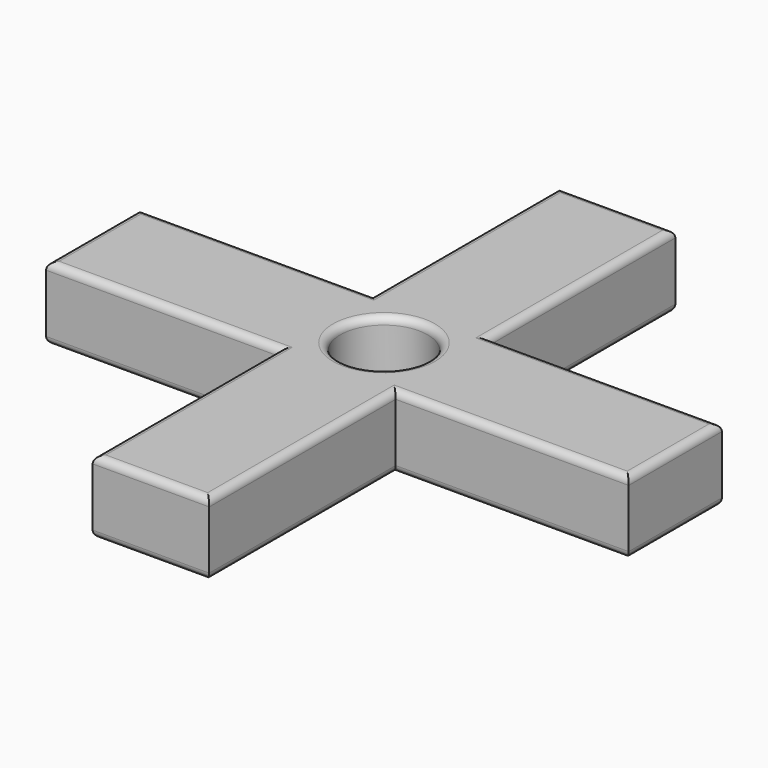
from build123d import *

# Parameters (mm, degrees)
F0_R     = 6.35
F0_R_2   = 3.81
F1_DEPTH = 6.35
F2_W     = 1.27
F2_H     = 1.27
F3_DEPTH = 6.35
F4_R     = 0.635


with BuildPart() as f1:
    # F0 (on Top) → F1 (new body)
    with BuildSketch(Plane.XY):
        Circle(F0_R)
        Circle(F0_R_2, mode=Mode.SUBTRACT)
    extrude(amount=F1_DEPTH)

    # F2 (on face) → F3 (join)
    with BuildSketch(Plane.XY.offset(6.35)):
        Polygon((25.4, -5.08), (25.4, 5.08), (5.08, 5.08), (5.08, 3.81), (3.81, 3.81), (3.81, -3.81), (5.08, -3.81), (5.08, -5.08), align=None)
        Polygon((3.81, 5.08), (5.08, 5.08), (5.08, 25.4), (-5.08, 25.4), (-5.08, 5.08), (-3.81, 5.08), (-3.81, 3.81), (3.81, 3.81), align=None)
        with Locations((4.445, 4.445)):
            Rectangle(F2_W, F2_H)
        Polygon((5.08, -25.4), (5.08, -5.08), (3.81, -5.08), (3.81, -3.81), (-3.81, -3.81), (-3.81, -5.08), (-5.08, -5.08), (-5.08, -25.4), align=None)
        with Locations((4.445, -4.445)):
            Rectangle(F2_W, F2_H)
        with Locations((-4.445, 4.445)):
            Rectangle(F2_W, F2_H)
        Polygon((-3.81, -3.81), (-3.81, 3.81), (-5.08, 3.81), (-5.08, 5.08), (-25.4, 5.08), (-25.4, -5.08), (-5.08, -5.08), (-5.08, -3.81), align=None)
        with Locations((-4.445, -4.445)):
            Rectangle(F2_W, F2_H)
    extrude(amount=-F3_DEPTH)

    # F4
    f4_edges = [f1.edges().sort_by_distance(p)[0] for p in [
        (-3.81, 0, 6.35),
        (-3.81, 0, 0),
        (-15.24, -5.08, 0),
        (-5.08, -15.24, 0),
        (0, -25.4, 0),
        (5.08, -15.24, 0),
        (15.24, -5.08, 0),
        (25.4, 0, 0),
        (15.24, 5.08, 0),
        (5.08, 15.24, 0),
        (0, 25.4, 0),
        (-5.08, 15.24, 0),
        (-15.24, 5.08, 0),
        (-25.4, 0, 0),
        (-15.24, -5.08, 6.35),
        (-5.08, -15.24, 6.35),
        (0, -25.4, 6.35),
        (5.08, -15.24, 6.35),
        (15.24, -5.08, 6.35),
        (25.4, 0, 6.35),
        (15.24, 5.08, 6.35),
        (5.08, 15.24, 6.35),
        (0, 25.4, 6.35),
        (-5.08, 15.24, 6.35),
        (-15.24, 5.08, 6.35),
        (-25.4, 0, 6.35),
    ]]
    fillet(f4_edges, radius=F4_R)


solid = f1.part
